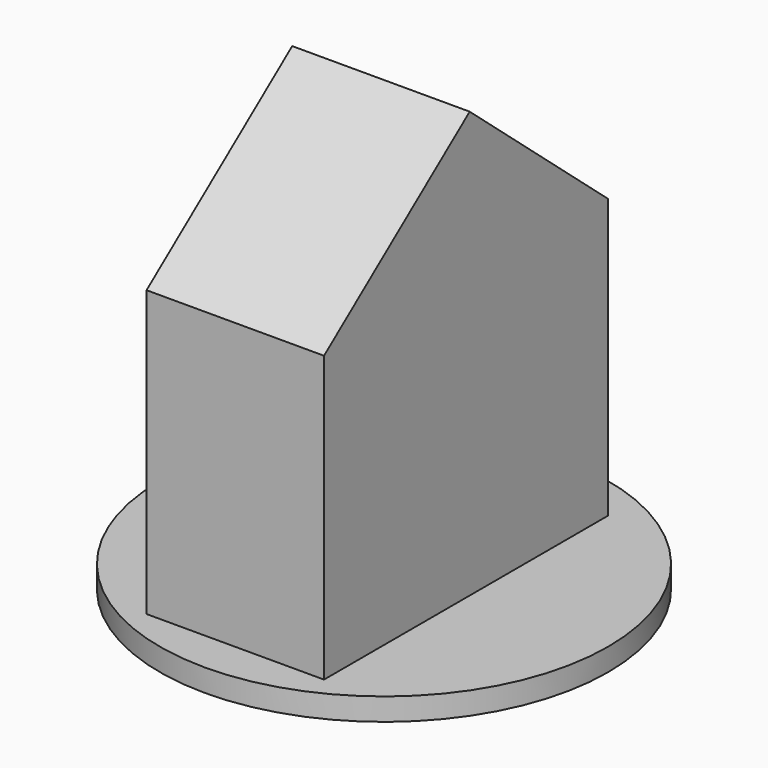
from build123d import *

# Parameters (mm, degrees)
F0_R     = 20
F0_W     = 15.831889
F0_H     = 31.663778
F0_R_2   = 3.101009
F1_DEPTH = 2
F2_DEPTH = 40
F4_DEPTH = 25


with BuildPart() as f1:
    # F0 (on Top) → F1 (new body)
    with BuildSketch(Plane.XY):
        Circle(F0_R)
        with Locations((-0.272963, -0.409445)):
            Rectangle(F0_W, F0_H, mode=Mode.SUBTRACT)
        with Locations((-14.53372, 0)):
            Circle(F0_R_2, mode=Mode.SUBTRACT)
    extrude(amount=F1_DEPTH)

    # F0 (on Top) → F2 (join)
    with BuildSketch(Plane.XY):
        with Locations((-0.272963, -0.409445)):
            Rectangle(F0_W, F0_H)
    extrude(amount=F2_DEPTH)

    # F3 (on face) → F4 (cut)
    with BuildSketch(Plane(origin=(-8.188908, 0, 0), x_dir=(0, -1, 0), z_dir=(-1, 0, 0))):
        Polygon((0, 40), (16.241334, 27.432844), (16.241334, 40), align=None)
        Polygon((-15.422444, 26.886918), (0, 40), (-15.422444, 40), align=None)
    extrude(amount=-F4_DEPTH, mode=Mode.SUBTRACT)


solid = f1.part
